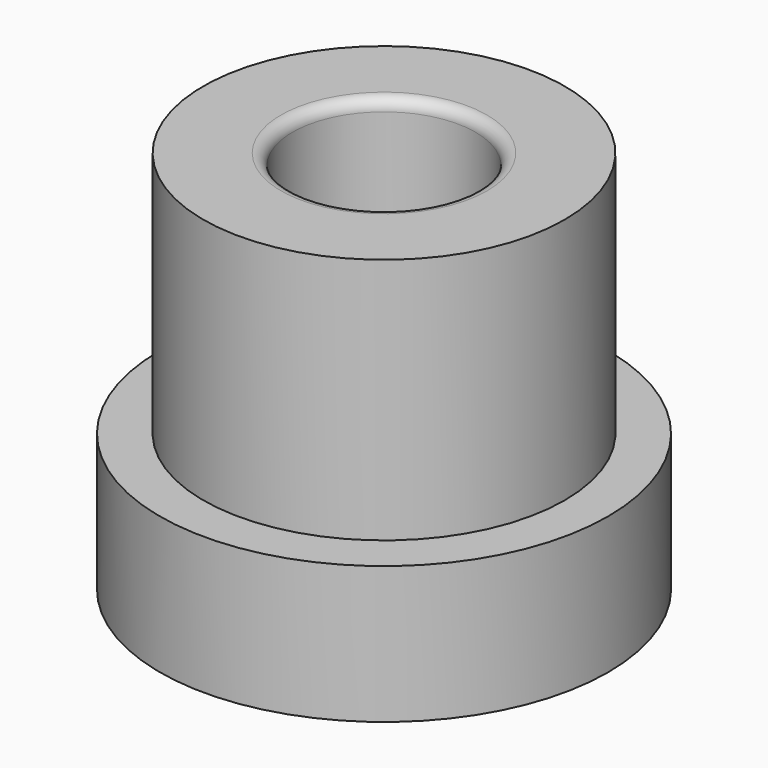
from build123d import *

# Parameters (mm, degrees)
F0_R     = 4.9
F0_R_2   = 3.95
F1_DEPTH = 3
F0_R_3   = 2
F2_DEPTH = 8.4
F3_R     = 0.25


with BuildPart() as f1:
    # F0 (on Top) → F1 (new body)
    with BuildSketch(Plane.XY):
        Circle(F0_R)
        Circle(F0_R_2, mode=Mode.SUBTRACT)
    extrude(amount=F1_DEPTH)

    # F0 (on Top) → F2 (join)
    with BuildSketch(Plane.XY):
        Circle(F0_R_2)
        Circle(F0_R_3, mode=Mode.SUBTRACT)
    extrude(amount=F2_DEPTH)

    # F3
    f3_edges = [f1.edges().sort_by_distance(p)[0] for p in [
        (-2, 0, 8.4),
    ]]
    fillet(f3_edges, radius=F3_R)


solid = f1.part
